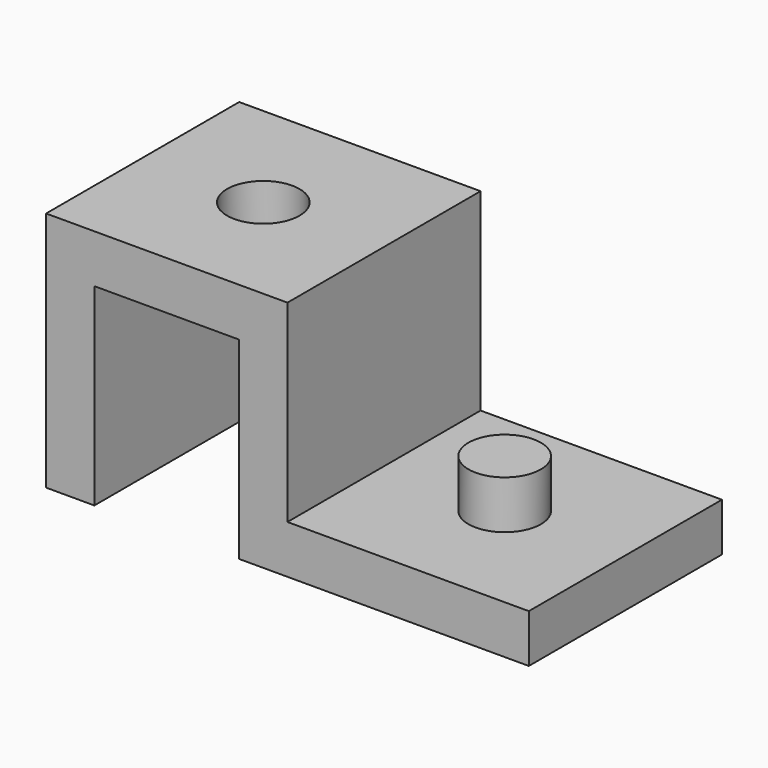
from build123d import *

# Parameters (mm, degrees)
F1_DEPTH = 50
F2_W     = 30
F2_H     = 40
F3_DEPTH = 50.001
F4_R     = 7.5
F5_DEPTH = 50.001
F6_R     = 7.5
F7_DEPTH = 20


with BuildPart() as f1:
    # F0 (on Front) → F1 (new body)
    with BuildSketch(Plane.XZ):
        Polygon((0, 50), (0, 0), (100, 0), (100, 10), (50, 10), (50, 50), align=None)
    extrude(amount=F1_DEPTH)

    # F2 (on face) → F3 (cut, through all)
    with BuildSketch(Plane.XZ.offset(50)):
        with Locations((25, 20)):
            Rectangle(F2_W, F2_H)
    extrude(amount=-F3_DEPTH, mode=Mode.SUBTRACT)

    # F4 (on face) → F5 (cut, through all)
    with BuildSketch(Plane.XY.offset(50)):
        with Locations((25, -25.001487)):
            Circle(F4_R)
    extrude(amount=-F5_DEPTH, mode=Mode.SUBTRACT)

    # F6 (on face) → F7 (join)
    with BuildSketch(Plane(origin=(0, 0, 0), x_dir=(1, 0, 0), z_dir=(0, 0, -1))):
        with Locations((75, 25)):
            Circle(F6_R)
    extrude(amount=-F7_DEPTH)


solid = f1.part
